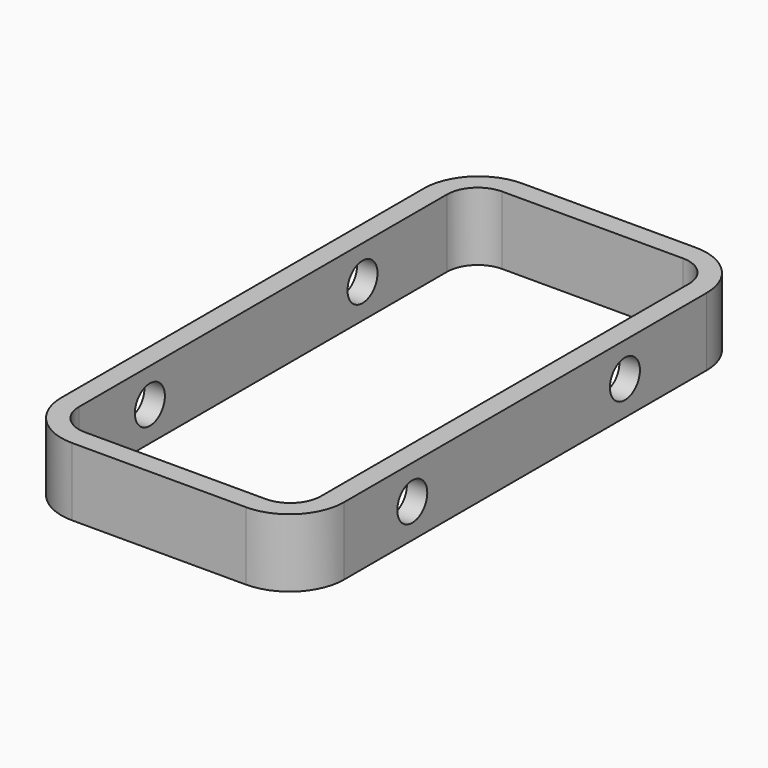
from build123d import *

# Parameters (mm, degrees)
F1_DEPTH = 20
F3_R     = 5.5
F4_DEPTH = 156


with BuildPart() as f1:
    # F0 (on Top) → F1 (new body)
    with BuildSketch(Plane.XY):
        with BuildLine():
            ThreePointArc((-16.0093317029, -19.1373033728), (-11.3230402019, -30.4510118717), (-0.0093317029, -35.1373033728))
            Line((-0.0093317029, -35.1373033728), (50.9906682971, -35.1373033728))
            ThreePointArc((50.9906682971, -35.1373033728), (62.3043767961, -30.4510118717), (66.9906682971, -19.1373033728))
            Line((66.9906682971, -19.1373033728), (66.9906682971, 109.3626966272))
            Line((66.9906682971, 109.3626966272), (66.9906682971, 113.8626966272))
            ThreePointArc((66.9906682971, 113.8626966272), (62.3043767961, 125.1764051262), (50.9906682971, 129.8626966272))
            Line((50.9906682971, 129.8626966272), (-0.0093317029, 129.8626966272))
            ThreePointArc((-0.0093317029, 129.8626966272), (-11.3230402019, 125.1764051262), (-16.0093317029, 113.8626966272))
            Line((-16.0093317029, 113.8626966272), (-16.0093317029, 109.3626966272))
            Line((-16.0093317029, 109.3626966272), (-16.0093317029, -19.1373033728))
        make_face()
        with BuildLine():
            Line((51.9906682971, -29.1373033728), (-1.0093317029, -29.1373033728))
            ThreePointArc((-1.0093317029, -29.1373033728), (-7.3732927336, -26.5012644034), (-10.0093317029, -20.1373033728))
            Line((-10.0093317029, -20.1373033728), (-10.0093317029, 106.1484987541))
            Line((-10.0093317029, 106.1484987541), (-10.0093317029, 114.8626966272))
            ThreePointArc((-10.0093317029, 114.8626966272), (-7.3732927336, 121.2266576579), (-1.0093317029, 123.8626966272))
            Line((-1.0093317029, 123.8626966272), (51.9906682971, 123.8626966272))
            ThreePointArc((51.9906682971, 123.8626966272), (58.3546293278, 121.2266576579), (60.9906682971, 114.8626966272))
            Line((60.9906682971, 114.8626966272), (60.9906682971, 106.1484987541))
            Line((60.9906682971, 106.1484987541), (60.9906682971, -20.1373033728))
            ThreePointArc((60.9906682971, -20.1373033728), (58.3546293278, -26.5012644034), (51.9906682971, -29.1373033728))
        make_face(mode=Mode.SUBTRACT)
        with BuildLine():
            ThreePointArc((-16.0093317029, -19.1373033728), (-11.3230402019, -30.4510118717), (-0.0093317029, -35.1373033728))
            Line((-0.0093317029, -35.1373033728), (50.9906682971, -35.1373033728))
            ThreePointArc((50.9906682971, -35.1373033728), (62.3043767961, -30.4510118717), (66.9906682971, -19.1373033728))
            Line((66.9906682971, -19.1373033728), (66.9906682971, 109.3626966272))
            Line((66.9906682971, 109.3626966272), (66.9906682971, 113.8626966272))
            ThreePointArc((66.9906682971, 113.8626966272), (62.3043767961, 125.1764051262), (50.9906682971, 129.8626966272))
            Line((50.9906682971, 129.8626966272), (-0.0093317029, 129.8626966272))
            ThreePointArc((-0.0093317029, 129.8626966272), (-11.3230402019, 125.1764051262), (-16.0093317029, 113.8626966272))
            Line((-16.0093317029, 113.8626966272), (-16.0093317029, 109.3626966272))
            Line((-16.0093317029, 109.3626966272), (-16.0093317029, -19.1373033728))
        make_face()
        with BuildLine():
            Line((51.9906682971, -29.1373033728), (-1.0093317029, -29.1373033728))
            ThreePointArc((-1.0093317029, -29.1373033728), (-7.3732927336, -26.5012644034), (-10.0093317029, -20.1373033728))
            Line((-10.0093317029, -20.1373033728), (-10.0093317029, 106.1484987541))
            Line((-10.0093317029, 106.1484987541), (-10.0093317029, 114.8626966272))
            ThreePointArc((-10.0093317029, 114.8626966272), (-7.3732927336, 121.2266576579), (-1.0093317029, 123.8626966272))
            Line((-1.0093317029, 123.8626966272), (51.9906682971, 123.8626966272))
            ThreePointArc((51.9906682971, 123.8626966272), (58.3546293278, 121.2266576579), (60.9906682971, 114.8626966272))
            Line((60.9906682971, 114.8626966272), (60.9906682971, 106.1484987541))
            Line((60.9906682971, 106.1484987541), (60.9906682971, -20.1373033728))
            ThreePointArc((60.9906682971, -20.1373033728), (58.3546293278, -26.5012644034), (51.9906682971, -29.1373033728))
        make_face(mode=Mode.SUBTRACT)
    extrude(amount=F1_DEPTH)

    # F3 (on offset) → F4 (cut)
    with BuildSketch(Plane.YZ.offset(91.9906682971)):
        with Locations((5.8626966272, 10)):
            Circle(F3_R)
        with Locations((83.8626966272, 10)):
            Circle(F3_R)
    extrude(amount=-F4_DEPTH, mode=Mode.SUBTRACT)


solid = f1.part
